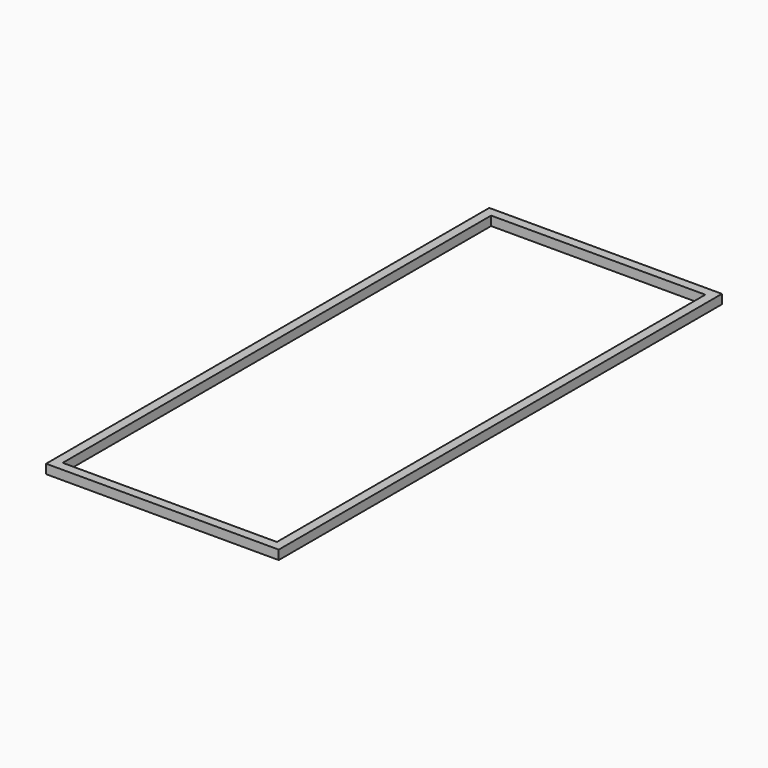
from build123d import *

# Parameters (mm, degrees)
F0_W     = 126
F0_H     = 300
F1_DEPTH = 5


with BuildPart() as f1:
    # F0 (on Top) → F1 (new body)
    with BuildSketch(Plane.XY):
        with Locations((63, 150)):
            Rectangle(F0_W, F0_H)
        Polygon((34, 5), (5, 5), (5, 34), (5, 63), (5, 92), (5, 121), (5, 150), (5, 179), (5, 208), (5, 237), (5, 266), (5, 295), (34, 295), (63, 295), (92, 295), (121, 295), (121, 266), (121, 237), (121, 208), (120.960728, 208), (121, 179), (121, 150), (121, 121), (121, 92), (121, 63), (121, 34), (121, 5), (92, 5), (63, 5), align=None, mode=Mode.SUBTRACT)
    extrude(amount=F1_DEPTH)


solid = f1.part
